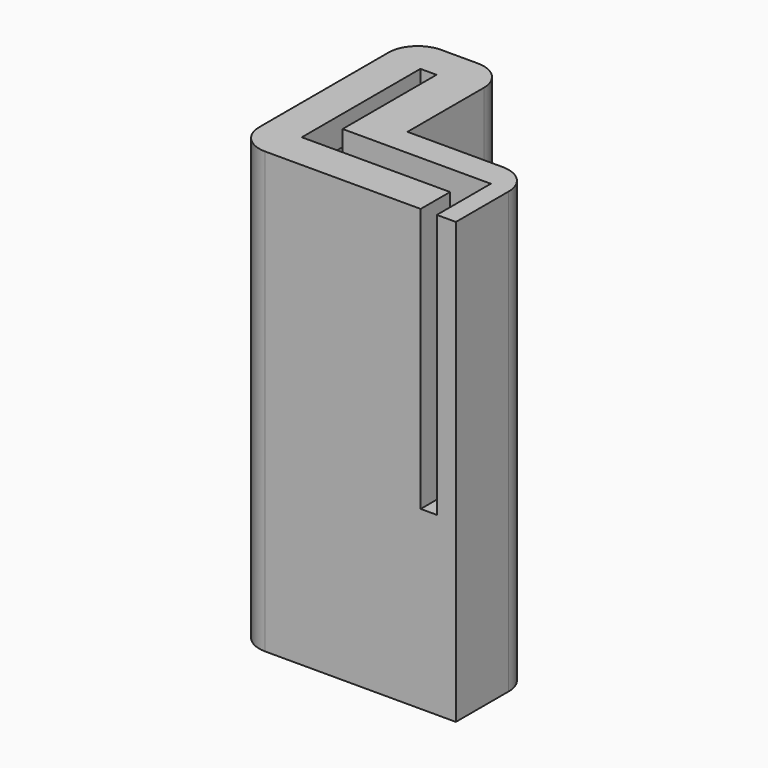
from build123d import *

# Parameters (mm, degrees)
PAD_DEPTH                          = 30
POCKET012_DEPTH                    = 28
POCKET013_DEPTH                    = 28
POCKET014_DEPTH                    = 18
FILLET005_R                        = 2
B_BOTTOM_CONNECTOR_ROLL_ANGLE      = 180
B_BOTTOM_CONNECTOR_PLACEMENT_ANGLE = 90


with BuildPart() as part:
    # Sketch039 → Pad (new body)
    with BuildSketch(Plane.XY):
        Polygon((5, 5), (13.5, 5), (13.5, -1.5), (-1.5, -1.5), (-1.5, 13.5), (5, 13.5), align=None)
    extrude(amount=PAD_DEPTH)

    # Sketch041 (on DatumPlane) → Pocket012 (cut)
    with BuildSketch(Plane.XY.offset(30)):
        Polygon((0, 10.1), (1.1, 10.1), (1.1, 1.1), (10.1, 1.1), (10.1, 0), (0, 0), align=None)
    extrude(amount=-POCKET012_DEPTH, mode=Mode.SUBTRACT)

    # Sketch040 (on X_Axis) → Pocket013 (cut)
    with BuildSketch(Plane.XY):
        Polygon((1, 11.1), (2.1, 11.1), (2.1, 2.1), (11.1, 2.1), (11.1, 1), (1, 1), align=None)
    extrude(amount=POCKET013_DEPTH, mode=Mode.SUBTRACT)

    # Sketch042 → Pocket014 (cut)
    with BuildSketch(Plane.XY):
        Polygon((2, 2.1), (3.1, 2.1), (3.1, 12.2), (-7, 12.2), (-7, 11.1), (2, 11.1), align=None)
    extrude(amount=POCKET014_DEPTH, mode=Mode.SUBTRACT)

    # Fillet005
    fillet005_edges = [part.edges().sort_by_distance(p)[0] for p in [
        (13.5, -1.5, 15),
        (-1.5, -1.5, 15),
        (13.5, 5, 15),
        (5, 13.5, 15),
    ]]
    fillet(fillet005_edges, radius=FILLET005_R)


with BuildPart() as part_1:
    # b_bottom_connector roll: moved
    add(part.part.rotate(Axis((0, 0, 0), (1, 0, 0)), B_BOTTOM_CONNECTOR_ROLL_ANGLE))


with BuildPart() as part_2:
    # b_bottom_connector placement: moved
    add(part_1.part.rotate(Axis((0, 0, 0), (0, 0, 1)), B_BOTTOM_CONNECTOR_PLACEMENT_ANGLE))


solid = part_2.part
